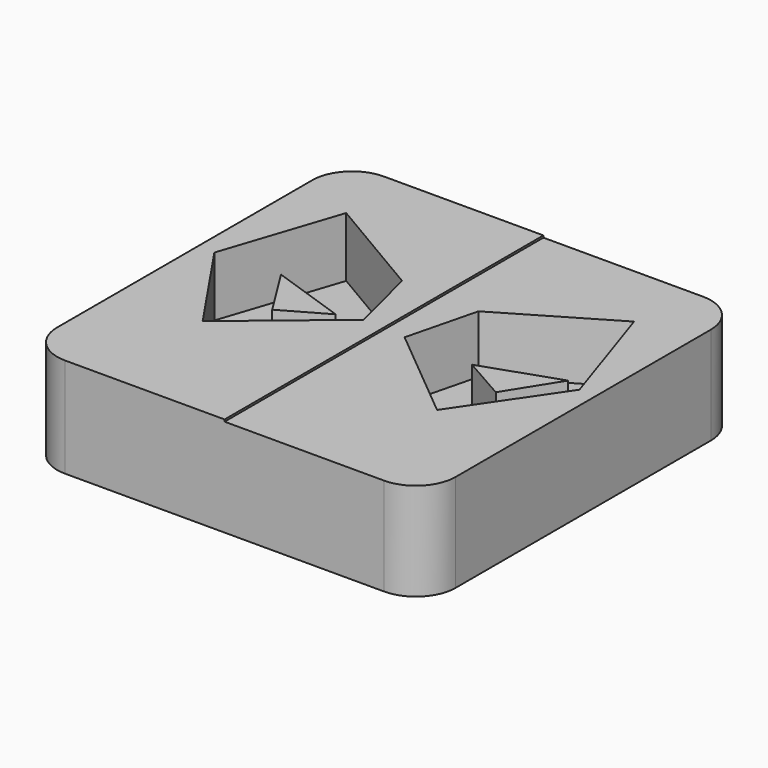
from build123d import *

# Parameters (mm, degrees)
F1_DEPTH = 6.35
F2_DEPTH = 3.81
F3_DEPTH = 1.3208
F4_DEPTH = 0.127


with BuildPart() as f1:
    # F0 (on Top) → F1 (new body)
    with BuildSketch(Plane.XY):
        with BuildLine():
            Line((0, 12.7), (-10.16, 12.7))
            ThreePointArc((-10.16, 12.7), (-11.9560512242, 11.9560512242), (-12.7, 10.16))
            Line((-12.7, 10.16), (-12.7, -10.16))
            ThreePointArc((-12.7, -10.16), (-11.9560512242, -11.9560512242), (-10.16, -12.7))
            Line((-10.16, -12.7), (0, -12.7))
            Line((0, -12.7), (0, 12.7))
        make_face()
        Polygon((-9.1738812898, 8.45533709), (-2.4342421361, 4.4829672283), (-1.3116230257, 0), (-7.4698259894, -5.1080854787), (-11.6343700355, 1.0291366232), align=None, mode=Mode.SUBTRACT)
        with BuildLine():
            Line((10.16, 12.7), (0, 12.7))
            Line((0, 12.7), (0, -12.7))
            Line((0, -12.7), (10.16, -12.7))
            ThreePointArc((10.16, -12.7), (11.9560512242, -11.9560512242), (12.7, -10.16))
            Line((12.7, -10.16), (12.7, 10.16))
            ThreePointArc((12.7, 10.16), (11.9560512242, 11.9560512242), (10.16, 12.7))
        make_face()
        Polygon((7.4698259894, -5.1080854787), (1.3116230257, 0), (2.4342421361, 4.4829672283), (9.1738812898, 8.45533709), (11.6343700355, 1.0291366232), align=None, mode=Mode.SUBTRACT)
        Polygon((-1.3116230257, 0), (-2.4342421361, 4.4829672283), (-9.1738812898, 8.45533709), (-11.6343700355, 1.0291366232), (-7.4698259894, -5.1080854787), align=None)
        Polygon((-4.3419757446, 1.5814950152), (-7.1237651675, 0), (-9.1477709961, 3.227925093), align=None, mode=Mode.SUBTRACT)
        Polygon((-9.1477709961, 3.227925093), (-7.1237651675, 0), (-4.3419757446, 1.5814950152), align=None)
        Polygon((2.4342421361, 4.4829672283), (1.3116230257, 0), (7.4698259894, -5.1080854787), (11.6343700355, 1.0291366232), (9.1738812898, 8.45533709), align=None)
        Polygon((4.3419757446, 1.5814950152), (9.1477709961, 3.227925093), (7.1237651675, 0), align=None, mode=Mode.SUBTRACT)
        Polygon((7.1237651675, 0), (9.1477709961, 3.227925093), (4.3419757446, 1.5814950152), align=None)
    extrude(amount=-F1_DEPTH)

    # F0 (on Top) → F2 (cut)
    with BuildSketch(Plane.XY):
        Polygon((-1.3116230257, 0), (-2.4342421361, 4.4829672283), (-9.1738812898, 8.45533709), (-11.6343700355, 1.0291366232), (-7.4698259894, -5.1080854787), align=None)
        Polygon((-4.3419757446, 1.5814950152), (-7.1237651675, 0), (-9.1477709961, 3.227925093), align=None, mode=Mode.SUBTRACT)
        Polygon((2.4342421361, 4.4829672283), (1.3116230257, 0), (7.4698259894, -5.1080854787), (11.6343700355, 1.0291366232), (9.1738812898, 8.45533709), align=None)
        Polygon((4.3419757446, 1.5814950152), (9.1477709961, 3.227925093), (7.1237651675, 0), align=None, mode=Mode.SUBTRACT)
    extrude(amount=-F2_DEPTH, mode=Mode.SUBTRACT)

    # F0 (on Top) → F3 (cut)
    with BuildSketch(Plane.XY):
        Polygon((-9.1477709961, 3.227925093), (-7.1237651675, 0), (-4.3419757446, 1.5814950152), align=None)
        Polygon((7.1237651675, 0), (9.1477709961, 3.227925093), (4.3419757446, 1.5814950152), align=None)
    extrude(amount=-F3_DEPTH, mode=Mode.SUBTRACT)

    # F0 (on Top) → F4 (cut)
    with BuildSketch(Plane.XY):
        with BuildLine():
            Line((10.16, 12.7), (0, 12.7))
            Line((0, 12.7), (0, -12.7))
            Line((0, -12.7), (10.16, -12.7))
            ThreePointArc((10.16, -12.7), (11.9560512242, -11.9560512242), (12.7, -10.16))
            Line((12.7, -10.16), (12.7, 10.16))
            ThreePointArc((12.7, 10.16), (11.9560512242, 11.9560512242), (10.16, 12.7))
        make_face()
        Polygon((7.4698259894, -5.1080854787), (1.3116230257, 0), (2.4342421361, 4.4829672283), (9.1738812898, 8.45533709), (11.6343700355, 1.0291366232), align=None, mode=Mode.SUBTRACT)
    extrude(amount=-F4_DEPTH, mode=Mode.SUBTRACT)


solid = f1.part
